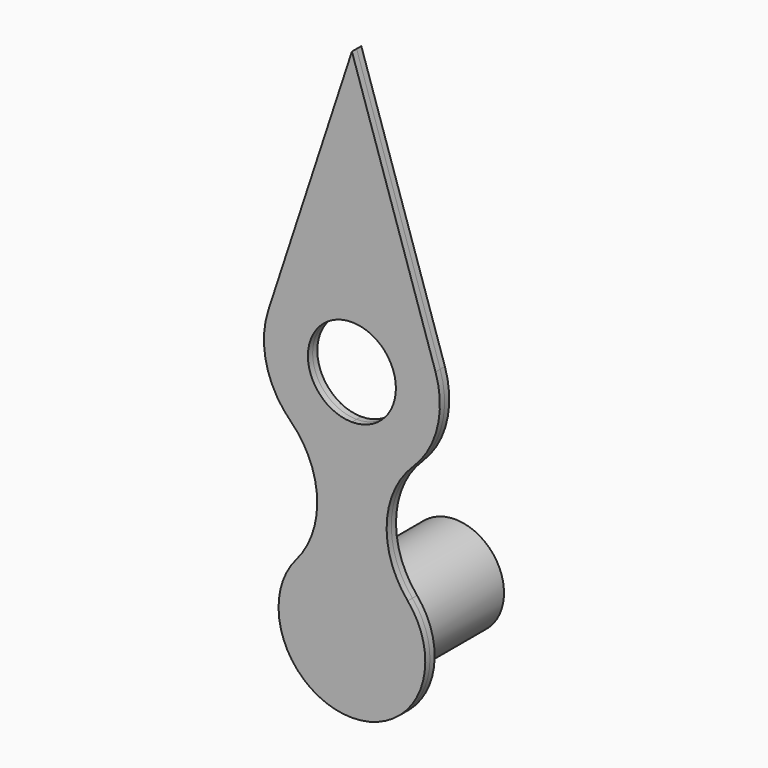
from build123d import *

# Parameters (mm, degrees)
F1_DEPTH = 0.381
F2_R     = 3.175
F3_DEPTH = 7.62
F4_R     = 1.905
F5_DEPTH = 7.62


with BuildPart() as f1:
    # F0 (on Front) → F1 (new body, symmetric)
    with BuildSketch(Plane.XZ):
        with BuildLine():
            Line((0, 16.9071391262), (0, 0))
            ThreePointArc((0, 0), (4.3273821072, 2.7700813861), (3.623545871, 7.8596983992))
            ThreePointArc((3.623545871, 7.8596983992), (2.2605059715, 11.8351901014), (3.9847012446, 15.6678866329))
            ThreePointArc((3.9847012446, 15.6678866329), (5.5496385017, 18.3998177093), (5.4302954357, 21.5459634876))
            Line((5.4302954357, 21.5459634876), (0, 38.1))
            Line((0, 38.1), (0, 22.6221391262))
            ThreePointArc((0, 22.6221391262), (2.0205576272, 21.7851967534), (2.8575, 19.7646391262))
            ThreePointArc((2.8575, 19.7646391262), (2.0205576272, 17.744081499), (0, 16.9071391262))
        make_face()
        with BuildLine():
            ThreePointArc((-3.623545871, 7.8596983992), (-4.3273821072, 2.7700813861), (0, 0))
            Line((0, 0), (0, 16.9071391262))
            ThreePointArc((0, 16.9071391262), (-2.8575, 19.7646391262), (0, 22.6221391262))
            Line((0, 22.6221391262), (0, 38.1))
            Line((0, 38.1), (-5.4302954357, 21.5459634876))
            ThreePointArc((-5.4302954357, 21.5459634876), (-5.5496385017, 18.3998177093), (-3.9847012446, 15.6678866329))
            ThreePointArc((-3.9847012446, 15.6678866329), (-2.2605059715, 11.8351901014), (-3.623545871, 7.8596983992))
        make_face()
    extrude(amount=F1_DEPTH, both=True)

    # F2 (on face) → F3 (join)
    with BuildSketch(Plane(origin=(0, 0.381, 0), x_dir=(-1, 0, 0), z_dir=(0, 1, 0))):
        with Locations((0, 4.7651283676)):
            Circle(F2_R)
    extrude(amount=F3_DEPTH)

    # F4 (on face) → F5 (cut)
    with BuildSketch(Plane(origin=(0, 8.001, 0), x_dir=(-1, 0, 0), z_dir=(0, 1, 0))):
        with Locations((0, 4.7651283676)):
            Circle(F4_R)
    extrude(amount=-F5_DEPTH, mode=Mode.SUBTRACT)


solid = f1.part
